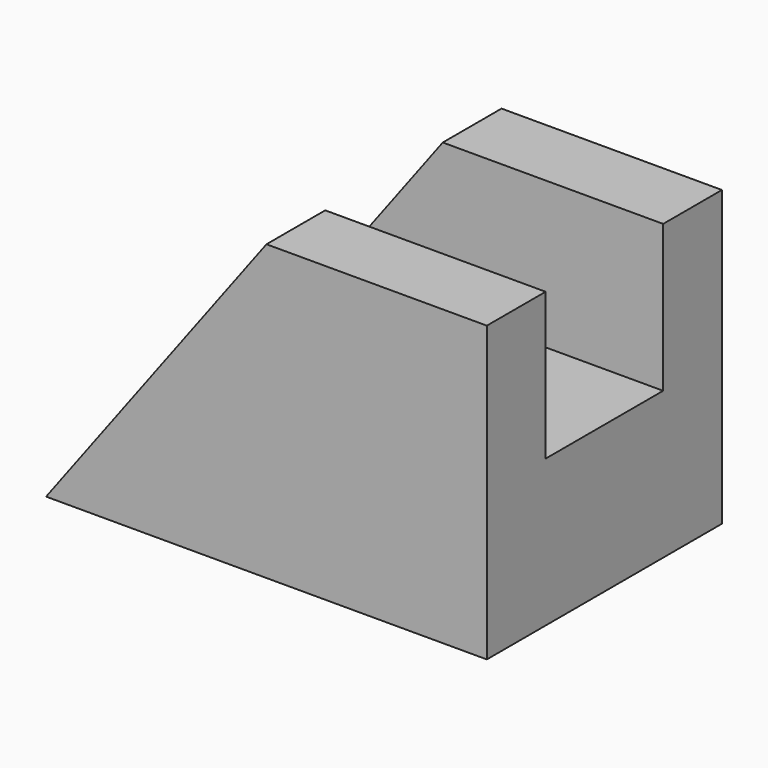
from build123d import *

# Parameters (mm, degrees)
F1_DEPTH = 12.7
F3_DEPTH = 6.35
F5_DEPTH = 6.35


with BuildPart() as f1:
    # F0 (on Front) → F1 (new body)
    with BuildSketch(Plane.XZ):
        Polygon((-38.1, 0), (0, 0), (0, 12.7), (-28.575, 12.7), align=None)
    extrude(amount=F1_DEPTH)

    # F2 (on face) → F3 (join)
    with BuildSketch(Plane.XZ.offset(12.7)):
        Polygon((-19.05, 25.4), (-38.1, 0), (0, 0), (0, 25.4), align=None)
    extrude(amount=F3_DEPTH)

    # F4 (on face) → F5 (join)
    with BuildSketch(Plane(origin=(0, 0, 0), x_dir=(-1, 0, 0), z_dir=(0, 1, 0))):
        Polygon((0, 0), (38.1, 0), (19.05, 25.4), (0, 25.4), align=None)
    extrude(amount=F5_DEPTH)


solid = f1.part
